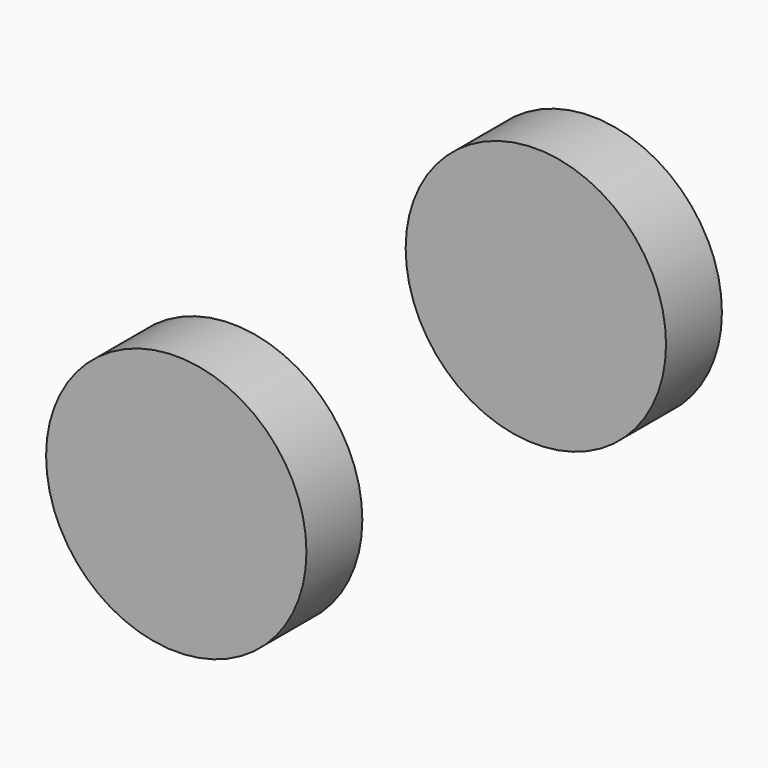
from build123d import *

# Parameters (mm, degrees)
F0_R     = 25.466629
F1_DEPTH = 50.8
F2_W     = 74.258968
F2_H     = 73.653594
F3_DEPTH = 50.8


with BuildPart() as f1:
    # F0 (on Front) → F1 (new body, symmetric)
    with BuildSketch(Plane.XZ):
        Circle(F0_R)
    extrude(amount=F1_DEPTH, both=True)

    # F2 (on Right) → F3 (cut, symmetric)
    with BuildSketch(Plane.YZ):
        Rectangle(F2_W, F2_H)
    extrude(amount=F3_DEPTH, both=True, mode=Mode.SUBTRACT)


solid = f1.part
